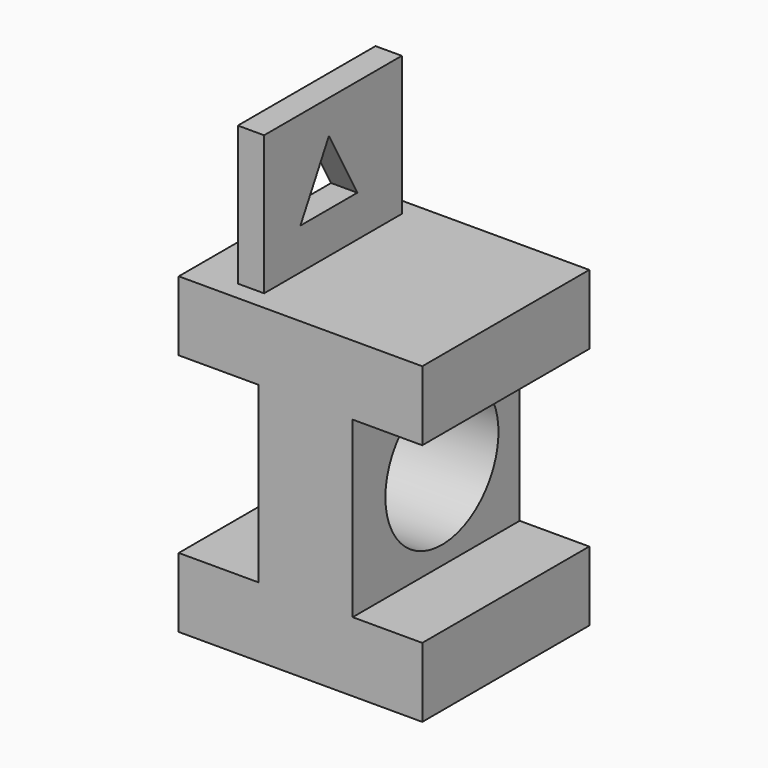
from build123d import *

# Parameters (mm, degrees)
F1_DEPTH = 76.2
F2_W     = 9.595008567
F2_H     = 62.8318372183
F3_DEPTH = 50.8
F5_DEPTH = 25.5704986105
F6_R     = 25.7972308172
F7_DEPTH = 59.7263876276


with BuildPart() as f1:
    # F0 (on Front) → F1 (new body)
    with BuildSketch(Plane.XZ):
        Polygon((-44.6047578722, -25.4), (-44.6047578722, -50.8), (44.2952421278, -50.8), (44.2952421278, -25.4), (18.8952421278, -25.4), (18.8952421278, 38.1), (44.2952421278, 38.1), (44.2952421278, 63.5), (-44.6047578722, 63.5), (-44.6047578722, 38.1), (-15.4301454999, 38.1), (-15.4301454999, -25.4), align=None)
    extrude(amount=F1_DEPTH)

    # F2 (on face) → F3 (join)
    with BuildSketch(Plane.XY.offset(63.5)):
        with Locations((-23.8327635452, -37.7904830966)):
            Rectangle(F2_W, F2_H)
    extrude(amount=F3_DEPTH)

    # F4 (on face) → F5 (cut, through all)
    with BuildSketch(Plane.YZ.offset(-19.0352592617)):
        Polygon((-52.6472702622, 78.5312056541), (-26.647888124, 78.5312056541), (-39.6475791931, 102.0544543862), align=None)
    extrude(amount=-F5_DEPTH, mode=Mode.SUBTRACT)

    # F6 (on face) → F7 (cut, through all)
    with BuildSketch(Plane(origin=(-15.4301454999, 0, 0), x_dir=(0, -1, 0), z_dir=(-1, 0, 0))):
        with Locations((35.4866050184, 7.0887273178)):
            Circle(F6_R)
    extrude(amount=-F7_DEPTH, mode=Mode.SUBTRACT)


solid = f1.part
